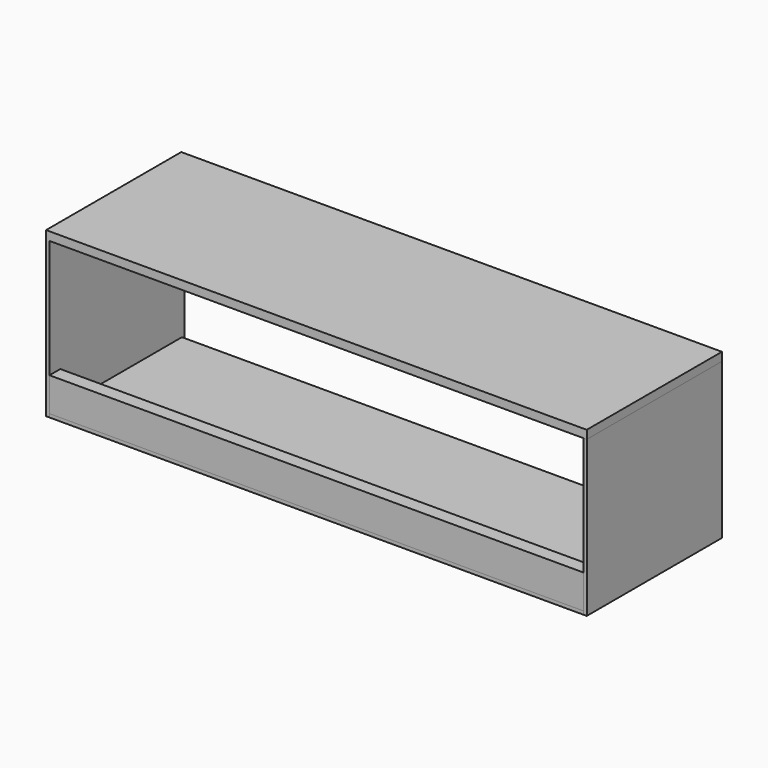
from build123d import *

# Parameters (mm, degrees)
F0_W      = 1600
F0_H      = 500
F1_DEPTH  = 25
F3_W      = 1580
F3_H      = 490
F4_DEPTH  = 10
F5_W      = 10
F5_H      = 500
F6_DEPTH  = 460
F7_W      = 10
F7_H      = 500
F8_DEPTH  = 460
F9_W      = 40
F9_H      = 100
F10_DEPTH = 1580


with BuildPart() as f1:
    # F0 (on Top) → F1 (new body)
    with BuildSketch(Plane.XY):
        with Locations((800, 250)):
            Rectangle(F0_W, F0_H)
    extrude(amount=F1_DEPTH)

    # F5 (on face) → F6 (join, through all)
    with BuildSketch(Plane.XY):
        with Locations((5, 250)):
            Rectangle(F5_W, F5_H)
    extrude(amount=-F6_DEPTH)


with BuildPart() as f4:
    # F3 (on offset) → F4 (new body)
    with BuildSketch(Plane.XY.offset(-460)):
        with Locations((800, 245)):
            Rectangle(F3_W, F3_H)
    extrude(amount=F4_DEPTH)


with BuildPart() as f8:
    # F7 (on face) → F8 (new body, through all)
    with BuildSketch(Plane.XY):
        with Locations((1595, 250)):
            Rectangle(F7_W, F7_H)
    extrude(amount=-F8_DEPTH)


with BuildPart() as f10:
    # F9 (on face) → F10 (new body, through all)
    with BuildSketch(Plane.YZ.offset(10)):
        with Locations((20, -400)):
            Rectangle(F9_W, F9_H)
    extrude(amount=F10_DEPTH)


solid = Compound([f1.part, f4.part, f8.part, f10.part])
